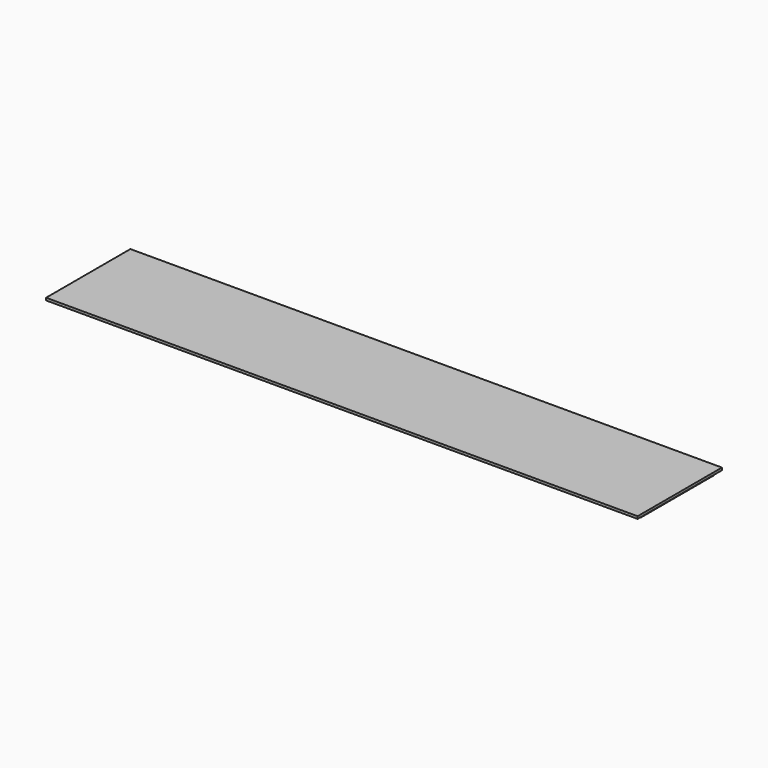
from build123d import *

# Parameters (mm, degrees)
F0_W     = 9
F0_H     = 27
F0_H_2   = 338
F1_DEPTH = 9
F2_DEPTH = 18


with BuildPart() as f1:
    # F0 (on Top) → F1 (new body)
    with BuildSketch(Plane.XY):
        with Locations((-961.648621, 8.59091)):
            Rectangle(F0_W, F0_H)
        Polygon((133.851379, 22.09091), (-957.148621, 22.09091), (-957.148621, -4.90909), (133.851379, -4.90909), (1224.851379, -4.90909), (1224.851379, 22.09091), align=None)
        with Locations((-961.648621, -173.90909)):
            Rectangle(F0_W, F0_H_2)
        with Locations((-961.648621, -356.40909)):
            Rectangle(F0_W, F0_H)
        with Locations((1229.351379, 8.59091)):
            Rectangle(F0_W, F0_H)
        Polygon((133.851379, -342.90909), (-957.148621, -342.90909), (-957.148621, -369.90909), (133.851379, -369.90909), (1224.851379, -369.90909), (1224.851379, -342.90909), align=None)
        with Locations((1229.351379, -173.90909)):
            Rectangle(F0_W, F0_H_2)
        with Locations((1229.351379, -356.40909)):
            Rectangle(F0_W, F0_H)
    extrude(amount=-F1_DEPTH)

    # F0 (on Top) → F2 (join)
    with BuildSketch(Plane.XY):
        Polygon((133.851379, -4.90909), (-957.148621, -4.90909), (-957.148621, -342.90909), (133.851379, -342.90909), (1224.851379, -342.90909), (1224.851379, -4.90909), align=None)
    extrude(amount=-F2_DEPTH)


solid = f1.part
